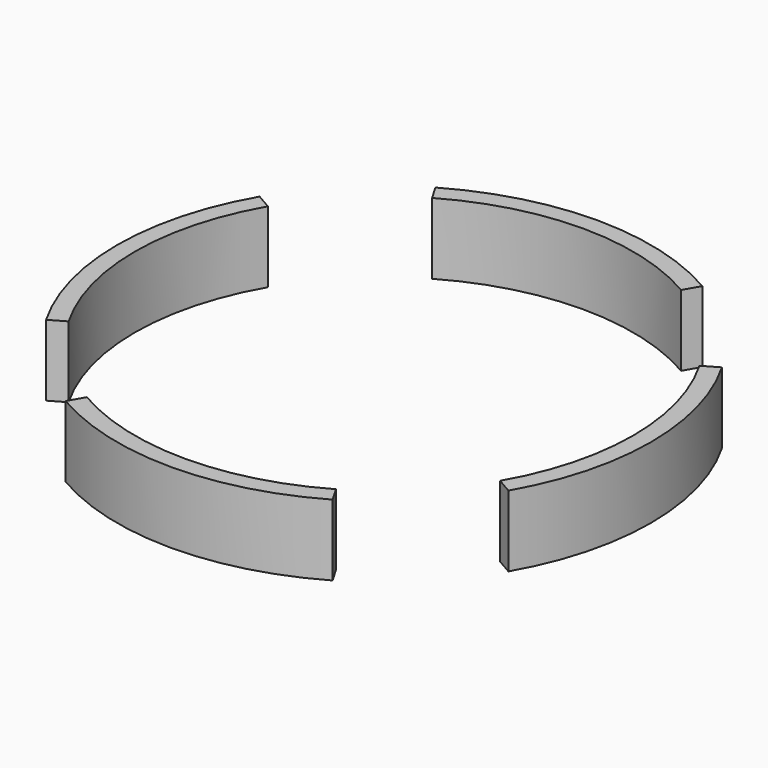
from build123d import *

# Parameters (mm, degrees)
F1_DEPTH = 5


with BuildPart() as f1:
    # F0 (on Top) → F1 (new body)
    with BuildSketch(Plane.XY):
        with BuildLine():
            ThreePointArc((-15.155445, -8.75), (-17.5, 0), (-15.155445, 8.75))
            Line((-15.155445, 8.75), (-16.237976, 9.375))
            ThreePointArc((-16.237976, 9.375), (-18.75, 0), (-16.237976, -9.375))
            Line((-16.237976, -9.375), (-15.155445, -8.75))
        make_face()
        with BuildLine():
            ThreePointArc((8.75, -15.155445), (0, -17.5), (-8.75, -15.155445))
            Line((-8.75, -15.155445), (-9.375, -16.237976))
            ThreePointArc((-9.375, -16.237976), (0, -18.75), (9.375, -16.237976))
            Line((9.375, -16.237976), (8.75, -15.155445))
        make_face()
        with BuildLine():
            ThreePointArc((15.155445, 8.75), (17.5, 0), (15.155445, -8.75))
            Line((15.155445, -8.75), (16.237976, -9.375))
            ThreePointArc((16.237976, -9.375), (18.75, 0), (16.237976, 9.375))
            Line((16.237976, 9.375), (15.155445, 8.75))
        make_face()
        with BuildLine():
            Line((-9.375, 16.237976), (-8.75, 15.155445))
            ThreePointArc((-8.75, 15.155445), (0, 17.5), (8.75, 15.155445))
            Line((8.75, 15.155445), (9.375, 16.237976))
            ThreePointArc((9.375, 16.237976), (0, 18.75), (-9.375, 16.237976))
        make_face()
    extrude(amount=F1_DEPTH)


solid = f1.part
